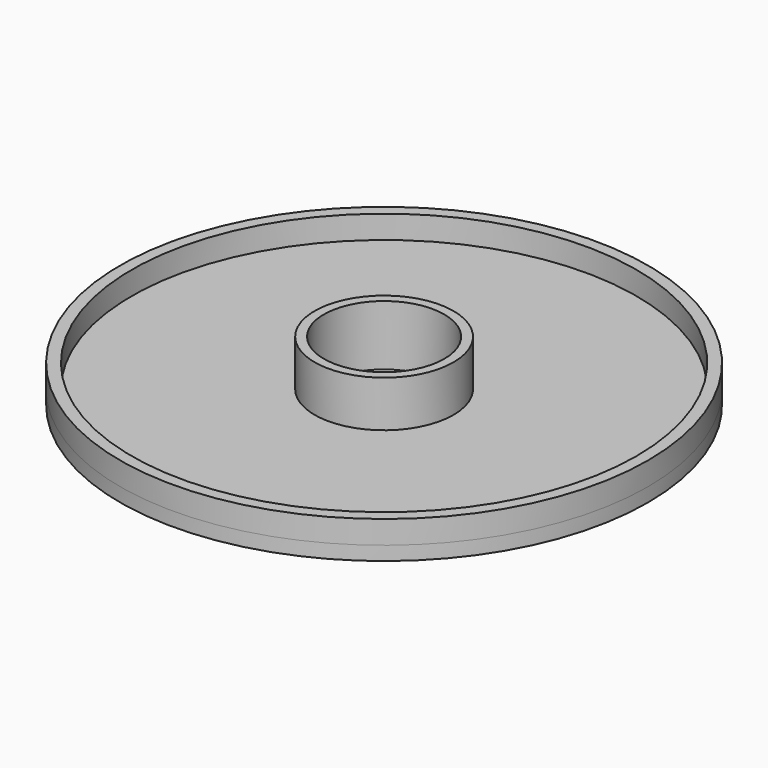
from build123d import *

# Parameters (mm, degrees)
F0_R     = 57
F0_R_2   = 54.5
F0_R_3   = 15
F0_R_4   = 13
F1_DEPTH = 3
F2_DEPTH = 5
F3_DEPTH = 10


with BuildPart() as f1:
    # F0 (on Top) → F1 (new body)
    with BuildSketch(Plane.XY):
        Circle(F0_R)
        Circle(F0_R_2, mode=Mode.SUBTRACT)
        Circle(F0_R_2)
        Circle(F0_R_3, mode=Mode.SUBTRACT)
        Circle(F0_R_3)
        Circle(F0_R_4, mode=Mode.SUBTRACT)
    extrude(amount=-F1_DEPTH)

    # F0 (on Top) → F2 (join)
    with BuildSketch(Plane.XY):
        Circle(F0_R)
        Circle(F0_R_2, mode=Mode.SUBTRACT)
    extrude(amount=F2_DEPTH)

    # F0 (on Top) → F3 (join)
    with BuildSketch(Plane.XY):
        Circle(F0_R_3)
        Circle(F0_R_4, mode=Mode.SUBTRACT)
    extrude(amount=F3_DEPTH)


solid = f1.part
